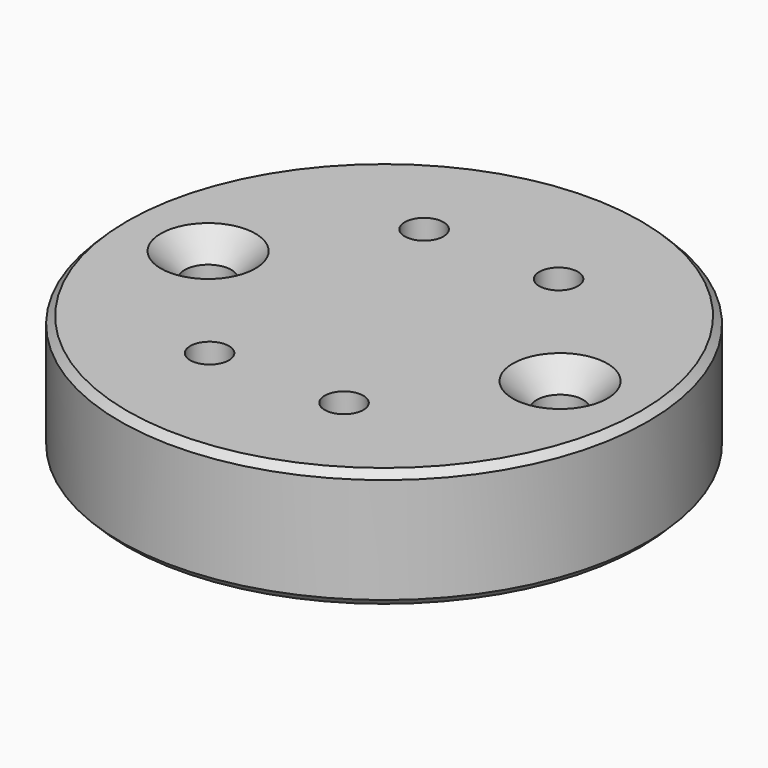
from build123d import *

# Parameters (mm, degrees)
F2_SIZE        = 1
F4_D           = 6.6
F4_CSINK_D     = 13.44
F4_CSINK_ANGLE = 90
F6_D           = 5.5
F6_CSINK_D     = 11.2
F6_CSINK_ANGLE = 90


with BuildPart() as f1:
    # F0 (on Front) → F1 (revolve)
    with BuildSketch(Plane.XZ):
        Polygon((0, 10), (0, 0), (31.6, 0), (31.6, -7), (37.5, -7), (37.5, 10), align=None)
    revolve(axis=Axis((0, 0, 5), (0, 0, -1)))

    # F2
    f2_edges = [f1.edges().sort_by_distance(p)[0] for p in [
        (-31.6, 0, -7),
        (-37.5, 0, -7),
        (-37.5, 0, 10),
    ]]
    chamfer(f2_edges, length=F2_SIZE)

    # F4 (through all)
    with Locations(Plane.XY.offset(10)):
        with Locations((-25, 0), (25, 0)):
            CounterSinkHole(F4_D / 2, F4_CSINK_D / 2, counter_sink_angle=F4_CSINK_ANGLE)

    # F6 (through all)
    with Locations(Plane(origin=(0, 0, 0), x_dir=(1, 0, 0), z_dir=(0, 0, -1))):
        with Locations((-9.55, 19.05), (9.55, 19.05), (9.55, -19.05), (-9.55, -19.05)):
            CounterSinkHole(F6_D / 2, F6_CSINK_D / 2, counter_sink_angle=F6_CSINK_ANGLE)


solid = f1.part
